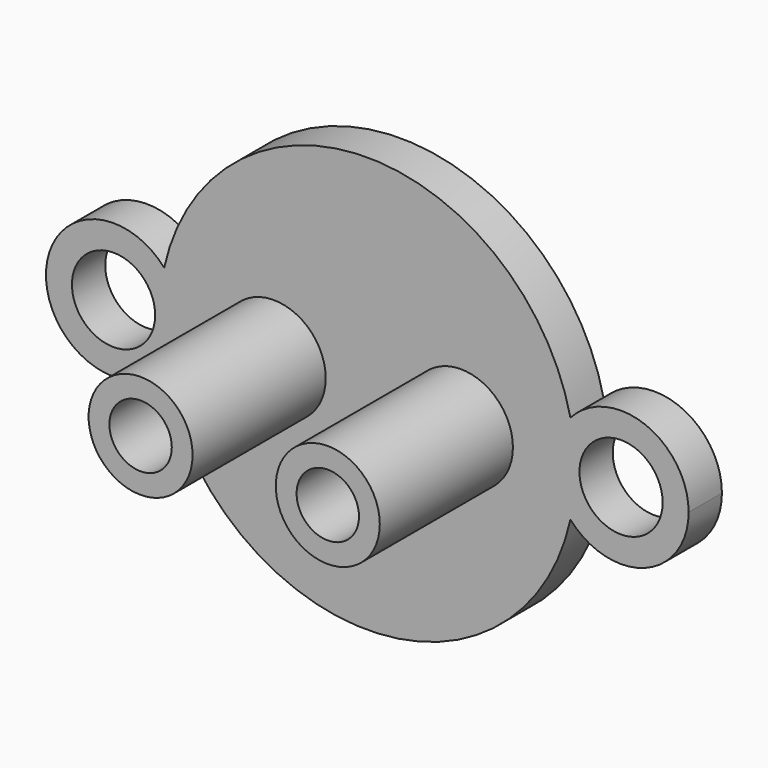
from build123d import *

# Parameters (mm, degrees)
F0_R     = 2.5
F1_DEPTH = 2
F0_R_2   = 1.5
F2_DEPTH = 10
F3_DEPTH = 2
F0_R_3   = 2
F4_DEPTH = 2
F5_DEPTH = 2


with BuildPart() as f1:
    # F0 (on Front) → F1 (new body)
    with BuildSketch(Plane.XZ):
        with BuildLine():
            ThreePointArc((9.7653447127, -2.1536115346), (8.9493655339, 0), (9.7653447127, 2.1536115346))
            ThreePointArc((9.7653447127, 2.1536115346), (-0.0002939612, 9.9999999957), (-9.7654713115, 2.1530374044))
            ThreePointArc((-9.7654713115, 2.1530374044), (-9.1606975934, 1.1511476366), (-8.95, 0))
            ThreePointArc((-8.95, 0), (-9.1606975934, -1.1511476366), (-9.7654713115, -2.1530374044))
            ThreePointArc((-9.7654713115, -2.1530374044), (-0.0002939612, -9.9999999957), (9.7653447127, -2.1536115346))
        make_face()
        with Locations((-4.5, 0)):
            Circle(F0_R, mode=Mode.SUBTRACT)
        with Locations((4.5, 0)):
            Circle(F0_R, mode=Mode.SUBTRACT)
    extrude(amount=F1_DEPTH)

    # F0 (on Front) → F2 (join)
    with BuildSketch(Plane.XZ):
        with Locations((-4.5, 0)):
            Circle(F0_R)
        with Locations((-4.5, 0)):
            Circle(F0_R_2, mode=Mode.SUBTRACT)
        with Locations((4.5, 0)):
            Circle(F0_R)
        with Locations((4.5, 0)):
            Circle(F0_R_2, mode=Mode.SUBTRACT)
    extrude(amount=F2_DEPTH)

    # F0 (on Front) → F3 (join)
    with BuildSketch(Plane.XZ):
        with BuildLine():
            ThreePointArc((9.7653447127, -2.1536115346), (8.9493655339, 0), (9.7653447127, 2.1536115346))
            ThreePointArc((9.7653447127, 2.1536115346), (-0.0002939612, 9.9999999957), (-9.7654713115, 2.1530374044))
            ThreePointArc((-9.7654713115, 2.1530374044), (-9.1606975934, 1.1511476366), (-8.95, 0))
            ThreePointArc((-8.95, 0), (-9.1606975934, -1.1511476366), (-9.7654713115, -2.1530374044))
            ThreePointArc((-9.7654713115, -2.1530374044), (-0.0002939612, -9.9999999957), (9.7653447127, -2.1536115346))
        make_face()
        with Locations((-4.5, 0)):
            Circle(F0_R, mode=Mode.SUBTRACT)
        with Locations((4.5, 0)):
            Circle(F0_R, mode=Mode.SUBTRACT)
    extrude(amount=F3_DEPTH)

    # F0 (on Front) → F4 (join)
    with BuildSketch(Plane.XZ):
        with BuildLine():
            ThreePointArc((9.7653447127, 2.1536115346), (9.9411630891, 1.0831788571), (10, 0))
            ThreePointArc((10, 0), (9.9411630891, -1.0831788571), (9.7653447127, -2.1536115346))
            ThreePointArc((9.7653447127, -2.1536115346), (13.3508715762, -3.0391666349), (15.4493655339, 0))
            ThreePointArc((15.4493655339, 0), (13.3508715762, 3.0391666349), (9.7653447127, 2.1536115346))
        make_face()
        with Locations((12.1999992313, 0.0043308363)):
            Circle(F0_R_3, mode=Mode.SUBTRACT)
        with BuildLine():
            ThreePointArc((-9.7654713115, -2.1530374044), (-10, 0), (-9.7654713115, 2.1530374044))
            ThreePointArc((-9.7654713115, 2.1530374044), (-15.45, 0), (-9.7654713115, -2.1530374044))
        make_face()
        with Locations((-12.2, 0)):
            Circle(F0_R_3, mode=Mode.SUBTRACT)
    extrude(amount=F4_DEPTH)

    # F0 (on Front) → F5 (join)
    with BuildSketch(Plane.XZ):
        with BuildLine():
            ThreePointArc((9.7653447127, -2.1536115346), (9.9411630891, -1.0831788571), (10, 0))
            ThreePointArc((10, 0), (9.9411630891, 1.0831788571), (9.7653447127, 2.1536115346))
            ThreePointArc((9.7653447127, 2.1536115346), (8.9493655339, 0), (9.7653447127, -2.1536115346))
        make_face()
        with BuildLine():
            ThreePointArc((-8.95, 0), (-9.1606975934, 1.1511476366), (-9.7654713115, 2.1530374044))
            ThreePointArc((-9.7654713115, 2.1530374044), (-10, 0), (-9.7654713115, -2.1530374044))
            ThreePointArc((-9.7654713115, -2.1530374044), (-9.1606975934, -1.1511476366), (-8.95, 0))
        make_face()
    extrude(amount=F5_DEPTH)


solid = f1.part
